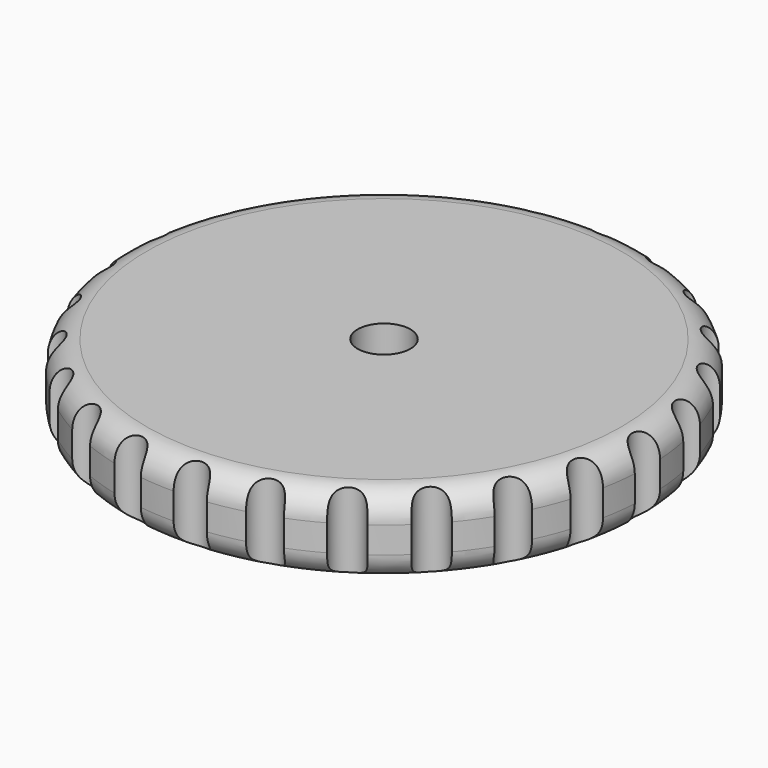
from build123d import *

# Parameters (mm, degrees)
TORUS002_R        = 0.3
TORUS001_R        = 0.3
TORUS_R           = 0.1
CYLINDER002_R     = 1
CYLINDER002_DEPTH = 10
CYLINDER001_R     = 0.6
CYLINDER001_DEPTH = 10
ARRAY_COUNT       = 25
CYLINDER_R        = 10
CYLINDER_DEPTH    = 3
FILLET_R          = 1


with BuildPart() as toro002:
    # Torus002 → Torus002 (revolve)
    with BuildSketch(Plane.XZ):
        with Locations((7.9, 0)):
            Circle(TORUS002_R)
    revolve(axis=Axis((0, 0, 0), (0, 0, 1)))


with BuildPart() as toro001:
    # Torus001 → Torus001 (revolve)
    with BuildSketch(Plane.XZ):
        with Locations((2, 0)):
            Circle(TORUS001_R)
    revolve(axis=Axis((0, 0, 0), (0, 0, 1)))


with BuildPart() as toro:
    # Torus → Torus (revolve)
    with BuildSketch(Plane.XZ):
        with Locations((1, 0)):
            Circle(TORUS_R)
    revolve(axis=Axis((0, 0, 0), (0, 0, 1)))


with BuildPart() as cilindro002:
    # Cylinder002 → Cylinder002 (new body)
    with BuildSketch(Plane.XY):
        Circle(CYLINDER002_R)
    extrude(amount=CYLINDER002_DEPTH)


with BuildPart() as array:
    # Cylinder001 → Cylinder001 (new body)
    with BuildSketch(Plane(origin=(10, 0, 0), x_dir=(1, 0, 0), z_dir=(0, 0, 1))):
        Circle(CYLINDER001_R)
    extrude(amount=CYLINDER001_DEPTH)

    # Array: Array ×25 about axis
    array_axis = Axis((0, 0, 0), (0, 0, 1))


with BuildPart() as array_1:
    add(array.part)
    for i in range(1, ARRAY_COUNT):
        add(array.part.rotate(array_axis, i * 360 / ARRAY_COUNT))


with BuildPart() as fusion001:
    # Cylinder → Cylinder (new body)
    with BuildSketch(Plane.XY):
        Circle(CYLINDER_R)
    extrude(amount=CYLINDER_DEPTH)

    # Fillet
    fillet_edges = [fusion001.edges().sort_by_distance(p)[0] for p in [
        (-10, 0, 3),
        (-10, 0, 0),
    ]]
    fillet(fillet_edges, radius=FILLET_R)

    # Cut: cut Array
    add(array_1.part, mode=Mode.SUBTRACT)

    # Cut001: cut Cilindro002
    add(cilindro002.part, mode=Mode.SUBTRACT)

    # Fusion: union Toro
    add(toro.part)

    # Fusion001: union Toro002, Toro001
    add(toro002.part)
    add(toro001.part)


solid = fusion001.part
